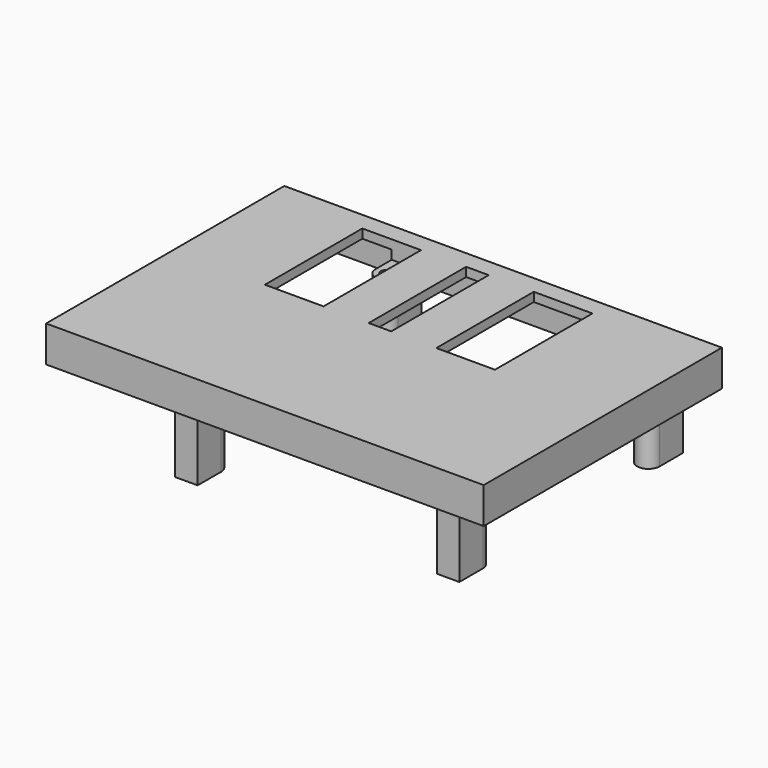
from build123d import *

# Parameters (mm, degrees)
BOX_W           = 97
BOX_H           = 66
BOX_DEPTH       = 2
SKETCH015_W     = 97
SKETCH015_H     = 66
SKETCH015_W_2   = 93
SKETCH015_H_2   = 62
PAD012_DEPTH    = 6
SKETCH016_R     = 1.3
PAD013_DEPTH    = 20
SKETCH014_W     = 13
SKETCH014_H     = 27
POCKET004_DEPTH = 4


with BuildPart() as part:
    # Box → Box (join)
    with BuildSketch(Plane.XY):
        with Locations((48.5, 33)):
            Rectangle(BOX_W, BOX_H)
    extrude(amount=BOX_DEPTH)

    # Sketch015 → Pad012 (join)
    with BuildSketch(Plane.XY):
        with Locations((48.5, 33)):
            Rectangle(SKETCH015_W, SKETCH015_H)
        with Locations((48.5, 33)):
            Rectangle(SKETCH015_W_2, SKETCH015_H_2, mode=Mode.SUBTRACT)
    extrude(amount=-PAD012_DEPTH)

    # Sketch016 → Pad013 (join)
    with BuildSketch(Plane.XY):
        with BuildLine():
            Line((27, 57.5), (27, 64))
            Line((27, 64), (32, 64))
            Line((32, 57.5), (32, 64))
            ThreePointArc((27, 57.5), (29.5, 55), (32, 57.5))
        make_face()
        with Locations((29.5, 57.5)):
            Circle(SKETCH016_R, mode=Mode.SUBTRACT)
        with BuildLine():
            Line((85, 57.5), (85, 64))
            Line((90, 64), (85, 64))
            Line((90, 57.5), (90, 64))
            ThreePointArc((85, 57.5), (87.5, 55), (90, 57.5))
        make_face()
        with Locations((87.5, 57.5)):
            Circle(SKETCH016_R, mode=Mode.SUBTRACT)
        with BuildLine():
            ThreePointArc((90, 8.5), (87.5, 11), (85, 8.5))
            Line((85, 8.5), (85, 2))
            Line((85, 2), (90, 2))
            Line((90, 8.5), (90, 2))
        make_face()
        with Locations((87.5, 8.5)):
            Circle(SKETCH016_R, mode=Mode.SUBTRACT)
        with BuildLine():
            Line((27, 8.5), (27, 2))
            Line((32, 2), (27, 2))
            Line((32, 8.5), (32, 2))
            ThreePointArc((32, 8.5), (29.5, 11), (27, 8.5))
        make_face()
        with Locations((29.5, 8.5)):
            Circle(SKETCH016_R, mode=Mode.SUBTRACT)
    extrude(amount=-PAD013_DEPTH)

    # Sketch014 → Pocket004 (cut)
    with BuildSketch(Plane.XY.offset(2)):
        Polygon((48.5, 62), (48.5, 35), (43.5, 35), (43.5, 62), (46, 62), align=None)
        with Locations((27, 48.5)):
            Rectangle(SKETCH014_W, SKETCH014_H)
        with Locations((65, 48.5)):
            Rectangle(SKETCH014_W, SKETCH014_H)
    extrude(amount=-POCKET004_DEPTH, mode=Mode.SUBTRACT)


solid = part.part
